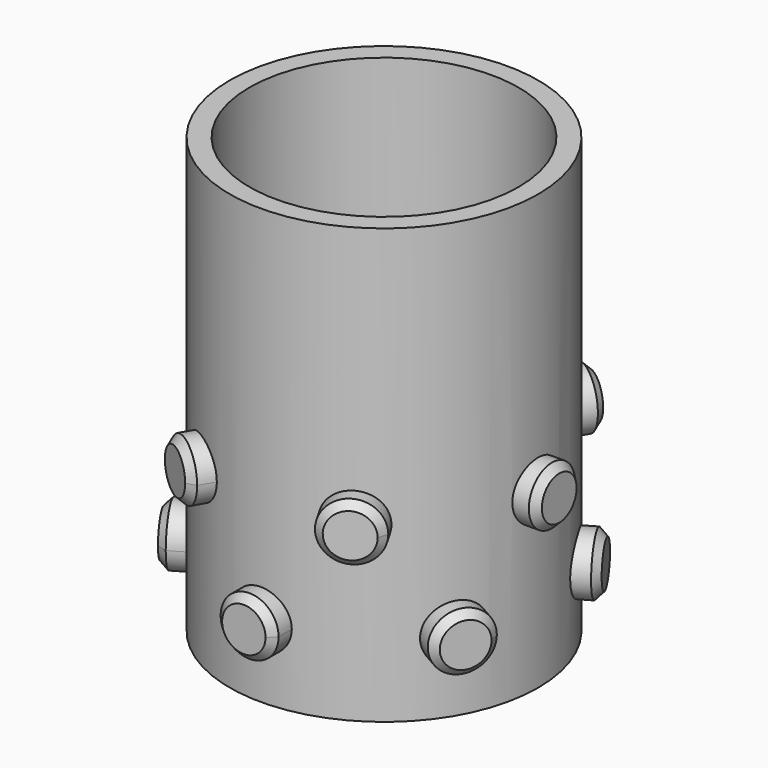
from build123d import *

# Parameters (mm, degrees)
F0_R     = 10.65
F0_R_2   = 9.3
F1_DEPTH = 30
F3_DEPTH = 2.5
F4_SIZE  = 0.5
F6_COUNT = 6
F8_ANGLE = 30
F9_COUNT = 6


with BuildPart() as f1:
    # F0 (on Top) → F1 (new body)
    with BuildSketch(Plane.XY):
        Circle(F0_R)
        Circle(F0_R_2, mode=Mode.SUBTRACT)
    extrude(amount=F1_DEPTH)



with BuildPart() as f3:
    # F2 (on Front) → F3 (new body)
    with BuildSketch(Plane.XZ):
        with BuildLine():
            ThreePointArc((0, 3), (1.4142135624, 3.5857864376), (2, 5))
            ThreePointArc((2, 5), (-1.4142135624, 6.4142135624), (0, 3))
        make_face()
    extrude(amount=F3_DEPTH)

    # F4
    f4_edges = [f3.edges().sort_by_distance(p)[0] for p in [
        (0, -2.5, 7),
    ]]
    chamfer(f4_edges, length=F4_SIZE)


with BuildPart() as f3_1:
    # F5: moved
    add(f3.part.moved(Location((0, -9.6, 0))))


with BuildPart() as f6_1:
    # F6: instance of F3
    add(f3_1.part.rotate(Axis((0, 0, 0), (0, 0, -1)), 1 * 360 / F6_COUNT))


with BuildPart() as f6_2:
    # F6: instance of F3
    add(f3_1.part.rotate(Axis((0, 0, 0), (0, 0, -1)), 2 * 360 / F6_COUNT))


with BuildPart() as f6_3:
    # F6: instance of F3
    add(f3_1.part.rotate(Axis((0, 0, 0), (0, 0, -1)), 3 * 360 / F6_COUNT))


with BuildPart() as f6_4:
    # F6: instance of F3
    add(f3_1.part.rotate(Axis((0, 0, 0), (0, 0, -1)), 4 * 360 / F6_COUNT))


with BuildPart() as f6_5:
    # F6: instance of F3
    add(f3_1.part.rotate(Axis((0, 0, 0), (0, 0, -1)), 5 * 360 / F6_COUNT))


with BuildPart() as f7_1:
    # F7: copy of F3
    add(f3_1.part.moved(Location((0, 0, 7))))


with BuildPart() as f7_1_1:
    # F8: moved
    add(f7_1.part.rotate(Axis((0, 0, 0), (0, 0, -1)), F8_ANGLE))


with BuildPart() as f1_1:
    add(f1.part)

    add(f3_1.part)  # F9 merges F3

    add(f6_1.part)  # F9 merges F6_1

    add(f6_2.part)  # F9 merges F6_2

    add(f6_3.part)  # F9 merges F6_3

    add(f6_4.part)  # F9 merges F6_4

    add(f6_5.part)  # F9 merges F6_5

    add(f7_1_1.part)  # F9 merges F7_1
    # F9: F7_1 ×6 about axis
    f9_axis = Axis((0, 0, 0), (0, 0, -1))
    for i in range(1, F9_COUNT):
        add(f7_1_1.part.rotate(f9_axis, i * 360 / F9_COUNT))


solid = f1_1.part
